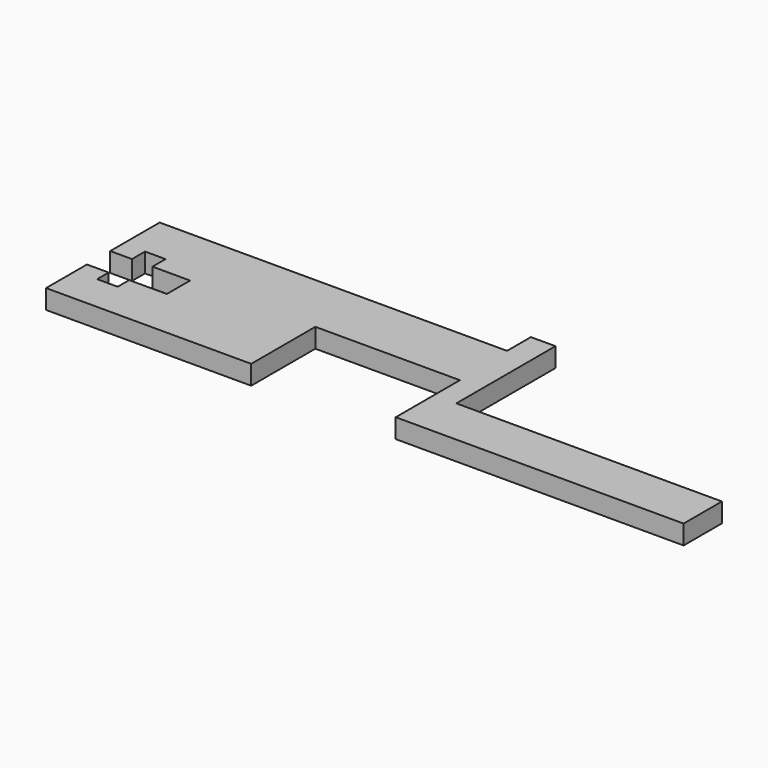
from build123d import *

# Parameters (mm, degrees)
F1_DEPTH = 3


with BuildPart() as f1:
    # F0 (on Top) → F1 (new body)
    with BuildSketch(Plane.XY):
        Polygon((-7.783117, 9.657321), (36.974076, 9.657321), (36.974076, 17.09868), (-4.313018, 17.09868), (-4.313018, 36.358356), (-8.13303, 36.358356), (-8.13303, 31.726617), (-62.140986, 31.726617), (-62.140986, 22.121349), (-58.759578, 22.121349), (-58.759578, 24.660556), (-55.569567, 24.660556), (-55.569567, 22.121349), (-49.721204, 22.121349), (-49.721204, 17.595727), (-55.569567, 17.595727), (-55.569567, 15.356348), (-58.759578, 15.356348), (-58.759578, 17.595727), (-62.140986, 17.595727), (-62.140986, 9.657321), (-30.253574, 9.657321), (-30.253574, 22.121349), (-7.783117, 22.121349), align=None)
    extrude(amount=F1_DEPTH)


solid = f1.part
